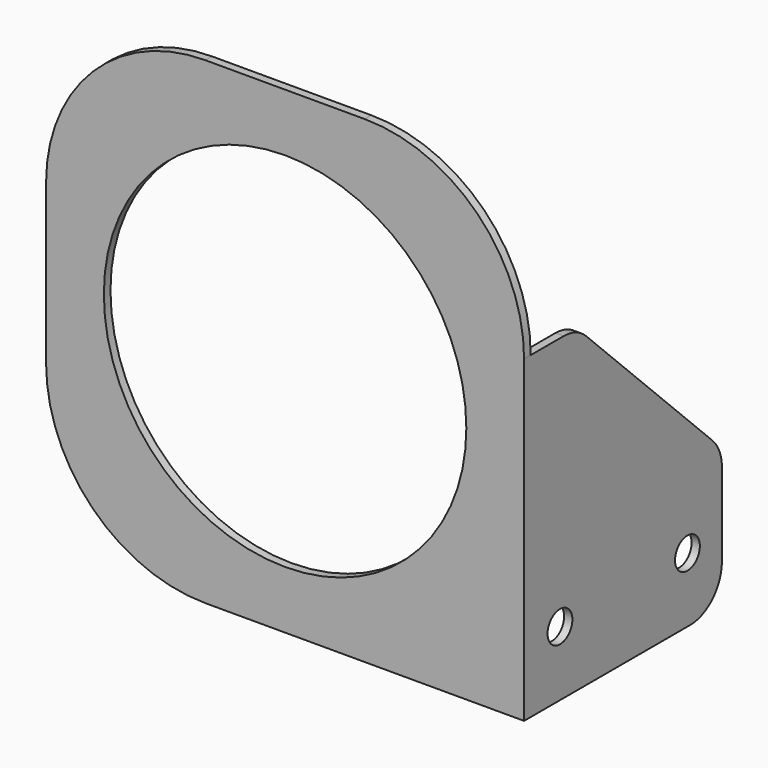
from build123d import *

# Parameters (mm, degrees)
F0_W      = 152.4
F0_H      = 152.4
F1_DEPTH  = 2.6416
F2_W      = 2.6416
F2_H      = 44.45
F3_DEPTH  = 76.2
F4_R      = 57.785
F5_DEPTH  = 25.4
F6_R      = 50.8
F7_R      = 4.953
F8_DEPTH  = 25.4
F10_DEPTH = 2.6416
F11_R     = 12.7


with BuildPart() as f1:
    # F0 (on Front) → F1 (new body)
    with BuildSketch(Plane.XZ):
        Rectangle(F0_W, F0_H)
    extrude(amount=F1_DEPTH)

    # F2 (on face) → F3 (join)
    with BuildSketch(Plane(origin=(0, 0, 0), x_dir=(-1, 0, 0), z_dir=(0, 1, 0))):
        with Locations((-74.8792, -53.975)):
            Rectangle(F2_W, F2_H)
    extrude(amount=F3_DEPTH)

    # F4 (on face) → F5 (cut)
    with BuildSketch(Plane.XZ.offset(2.6416)):
        Circle(F4_R)
    extrude(amount=-F5_DEPTH, mode=Mode.SUBTRACT)

    # F6
    f6_edges = [f1.edges().sort_by_distance(p)[0] for p in [
        (76.2, -1.3208, 76.2),
        (-76.2, -1.3208, 76.2),
        (-76.2, -1.3208, -76.2),
    ]]
    fillet(f6_edges, radius=F6_R)

    # F7 (on face) → F8 (cut)
    with BuildSketch(Plane(origin=(73.5584, 0, 0), x_dir=(0, -1, 0), z_dir=(-1, 0, 0))):
        with Locations((-11.6586, -55.5625)):
            Circle(F7_R)
        with Locations((-62.4586, -55.5625)):
            Circle(F7_R)
    extrude(amount=-F8_DEPTH, mode=Mode.SUBTRACT)

    # F9 (on face) → F10 (join)
    with BuildSketch(Plane.YZ.offset(76.2)):
        Polygon((18.402247, 25.4), (0, 25.4), (0, -31.75), (76.2, -31.75), align=None)
    extrude(amount=-F10_DEPTH)

    # F11
    f11_edges = [f1.edges().sort_by_distance(p)[0] for p in [
        (74.8792, 76.2, -76.2),
        (74.8792, 76.2, -31.75),
        (74.8792, 18.402247, 25.4),
    ]]
    fillet(f11_edges, radius=F11_R)


solid = f1.part
